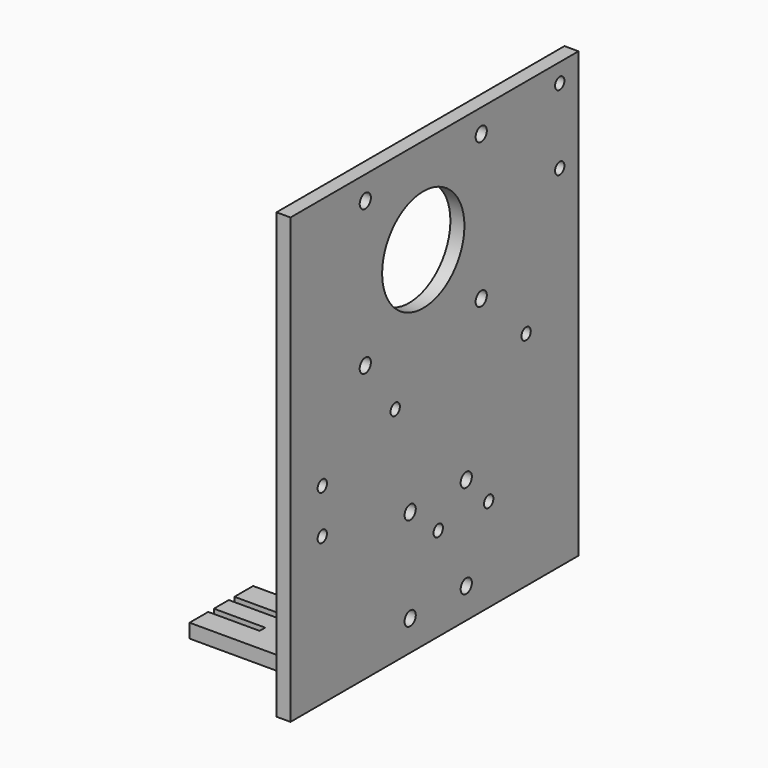
from build123d import *

# Parameters (mm, degrees)
SKETCH_W        = 32
SKETCH_H        = 95
PAD_DEPTH       = 77
SKETCH001_W     = 29
SKETCH001_H     = 92
POCKET_DEPTH    = 77.001
SKETCH002_W     = 11
SKETCH002_H     = 1.5
SKETCH002_W_2   = 29
SKETCH002_H_2   = 30
SKETCH002_H_3   = 13
POCKET001_DEPTH = 95.001
SKETCH003_R     = 1.25
SKETCH003_R_2   = 1.5
SKETCH003_R_3   = 11
POCKET002_DEPTH = 32.001
SKETCH004_R     = 1.5
POCKET003_DEPTH = 32.001


with BuildPart() as part:
    # Sketch → Pad (new body)
    with BuildSketch(Plane.XZ):
        with Locations((-16, 47.5)):
            Rectangle(SKETCH_W, SKETCH_H)
    extrude(amount=PAD_DEPTH)

    # Sketch001 (on Face5 of Pad) → Pocket (cut, through all)
    with BuildSketch(Plane(origin=(0, 0, 0), x_dir=(1, 0, 0), z_dir=(0, 1, 0))):
        with Locations((-17.5, -49)):
            Rectangle(SKETCH001_W, SKETCH001_H)
    extrude(amount=-POCKET_DEPTH, mode=Mode.SUBTRACT)

    # Sketch002 (on Face1 of Pocket) → Pocket001 (cut, through all)
    with BuildSketch(Plane(origin=(0, 0, 0), x_dir=(1, 0, 0), z_dir=(0, 0, -1))):
        with Locations((-26.5, 11.25)):
            Rectangle(SKETCH002_W, SKETCH002_H)
        with Locations((-26.5, 5.75)):
            Rectangle(SKETCH002_W, SKETCH002_H)
        with Locations((-26.5, 58.25)):
            Rectangle(SKETCH002_W, SKETCH002_H)
        with Locations((-26.5, 52.75)):
            Rectangle(SKETCH002_W, SKETCH002_H)
        with Locations((-17.5, 32)):
            Rectangle(SKETCH002_W_2, SKETCH002_H_2)
        with Locations((-17.5, 70.5)):
            Rectangle(SKETCH002_W_2, SKETCH002_H_3)
    extrude(amount=-POCKET001_DEPTH, mode=Mode.SUBTRACT)

    # Sketch003 (on Face27 of Pocket001) → Pocket002 (cut, through all)
    with BuildSketch(Plane(origin=(0, 0, 0), x_dir=(0, 0, 1), z_dir=(1, 0, 0))):
        with Locations((20, 37.5)):
            Circle(SKETCH003_R)
        with Locations((20, 24)):
            Circle(SKETCH003_R)
        with Locations((47.5, 49)):
            Circle(SKETCH003_R)
        with Locations((47.5, 14)):
            Circle(SKETCH003_R)
        with Locations((59, 57)):
            Circle(SKETCH003_R_2)
        with Locations((90, 57)):
            Circle(SKETCH003_R_2)
        with Locations((90, 26)):
            Circle(SKETCH003_R_2)
        with Locations((59, 26)):
            Circle(SKETCH003_R_2)
        with Locations((74.5, 41.5)):
            Circle(SKETCH003_R_3)
        with Locations((75, 5)):
            Circle(SKETCH003_R)
        with Locations((91, 5)):
            Circle(SKETCH003_R)
        with Locations((31.5, 68.5)):
            Circle(SKETCH003_R)
        with Locations((41, 68.5)):
            Circle(SKETCH003_R)
    extrude(amount=-POCKET002_DEPTH, mode=Mode.SUBTRACT)

    # Sketch004 (on Face27 of Pocket002) → Pocket003 (cut, through all)
    with BuildSketch(Plane(origin=(0, 0, 0), x_dir=(0, 0, 1), z_dir=(1, 0, 0))):
        with Locations((6.5, 30)):
            Circle(SKETCH004_R)
        with Locations((26.5, 30)):
            Circle(SKETCH004_R)
        with Locations((26.5, 45)):
            Circle(SKETCH004_R)
        with Locations((6.5, 45)):
            Circle(SKETCH004_R)
    extrude(amount=-POCKET003_DEPTH, mode=Mode.SUBTRACT)


solid = part.part
